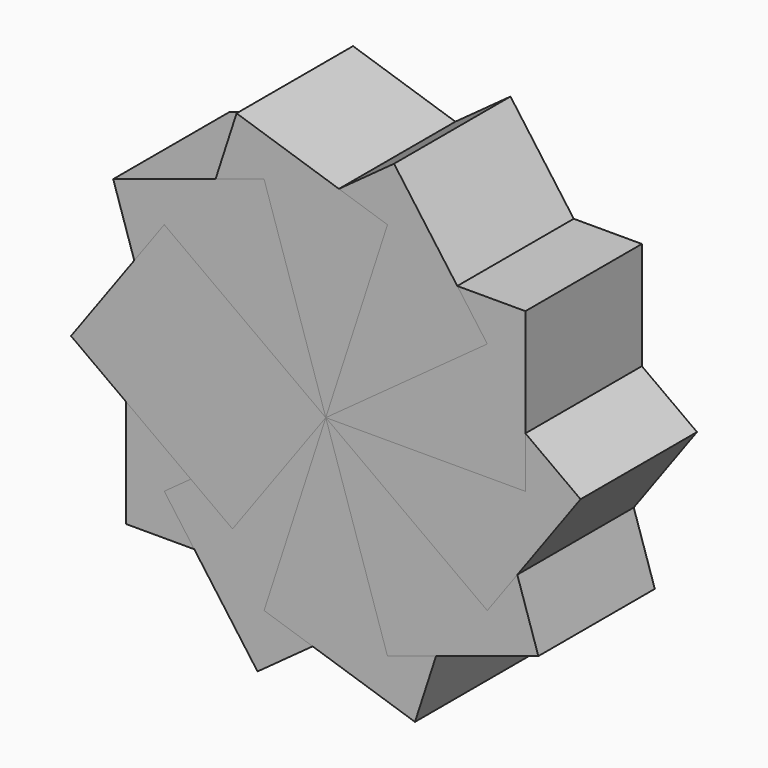
from build123d import *

# Parameters (mm, degrees)
F0_W          = 68.580114
F0_H          = 54.497752
F1_DEPTH      = 25
F1_DEPTH_BACK = 25
F2_COUNT      = 10


with BuildPart() as f1:
    # F0 (on Front) → F1 (new body, two sides)
    with BuildSketch(Plane.XZ) as f1_sk:
        with Locations((-67.571584, -7.067686)):
            Rectangle(F0_W, F0_H)
    extrude(amount=F1_DEPTH)
    extrude(f1_sk.sketch, amount=-F1_DEPTH_BACK)


with BuildPart() as f2_1:
    # F2: instance of F1
    add(f1.part.rotate(Axis((-33.281527, 0, 20.18119), (0, -1, 0)), 1 * 360 / F2_COUNT))


with BuildPart() as f2_2:
    # F2: instance of F1
    add(f1.part.rotate(Axis((-33.281527, 0, 20.18119), (0, -1, 0)), 2 * 360 / F2_COUNT))


with BuildPart() as f2_3:
    # F2: instance of F1
    add(f1.part.rotate(Axis((-33.281527, 0, 20.18119), (0, -1, 0)), 3 * 360 / F2_COUNT))


with BuildPart() as f2_4:
    # F2: instance of F1
    add(f1.part.rotate(Axis((-33.281527, 0, 20.18119), (0, -1, 0)), 4 * 360 / F2_COUNT))


with BuildPart() as f2_5:
    # F2: instance of F1
    add(f1.part.rotate(Axis((-33.281527, 0, 20.18119), (0, -1, 0)), 5 * 360 / F2_COUNT))


with BuildPart() as f2_6:
    # F2: instance of F1
    add(f1.part.rotate(Axis((-33.281527, 0, 20.18119), (0, -1, 0)), 6 * 360 / F2_COUNT))


with BuildPart() as f2_7:
    # F2: instance of F1
    add(f1.part.rotate(Axis((-33.281527, 0, 20.18119), (0, -1, 0)), 7 * 360 / F2_COUNT))


with BuildPart() as f2_8:
    # F2: instance of F1
    add(f1.part.rotate(Axis((-33.281527, 0, 20.18119), (0, -1, 0)), 8 * 360 / F2_COUNT))


with BuildPart() as f2_9:
    # F2: instance of F1
    add(f1.part.rotate(Axis((-33.281527, 0, 20.18119), (0, -1, 0)), 9 * 360 / F2_COUNT))


solid = Compound([f1.part, f2_1.part, f2_2.part, f2_3.part, f2_4.part, f2_5.part, f2_6.part, f2_7.part, f2_8.part, f2_9.part])
